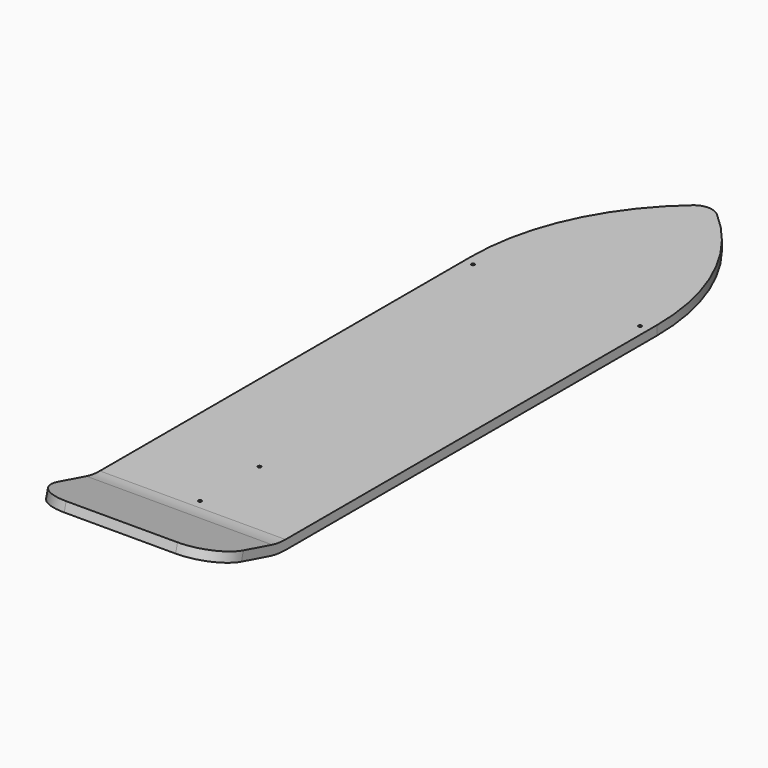
from build123d import *

# Parameters (mm, degrees)
F1_DEPTH = 12.7
F2_R     = 25.4
F4_DEPTH = 254
F5_R     = 50.8
F6_R     = 2.15265
F7_DEPTH = 12.7


with BuildPart() as f1:
    # F0 (on Top) → F1 (new body)
    with BuildSketch(Plane.XY):
        with BuildLine():
            Line((-254, -635), (0, -635))
            Line((0, -635), (0, 0))
            ThreePointArc((0, 0), (-33.5193668575, 141.9903165712), (-127, 254))
            ThreePointArc((-127, 254), (-220.4806331425, 141.9903165712), (-254, 0))
            Line((-254, 0), (-254, -635))
        make_face()
    extrude(amount=F1_DEPTH)

    # F2
    f2_edges = [f1.edges().sort_by_distance(p)[0] for p in [
        (-127, 254, 6.35),
    ]]
    fillet(f2_edges, radius=F2_R)

    # F3 (on face) → F4 (join, through all)
    with BuildSketch(Plane(origin=(-254, 0, 0), x_dir=(0, -1, 0), z_dir=(-1, 0, 0))):
        with BuildLine():
            ThreePointArc((658.0090131096, 15.7291940429), (646.6037784884, 13.4605518239), (635, 12.7))
            Line((635, 12.7), (635, 0))
            ThreePointArc((635, 0), (648.2614611296, 0.8692020844), (661.2960149824, 3.461936049))
            Line((661.2960149824, 3.461936049), (759.4340789334, 29.7579510314))
            Line((759.4340789334, 29.7579510314), (756.1470770606, 42.0252090253))
            Line((756.1470770606, 42.0252090253), (658.0090131096, 15.7291940429))
        make_face()
    extrude(amount=-F4_DEPTH)

    # F5
    f5_edges = [f1.edges().sort_by_distance(p)[0] for p in [
        (0, -757.790578, 35.89158),
        (-254, -757.790578, 35.89158),
    ]]
    fillet(f5_edges, radius=F5_R)

    # F6 (on face) → F7 (cut, through all)
    with BuildSketch(Plane.XY.offset(12.7)):
        with Locations((-127, -520.7)):
            Circle(F6_R)
        with Locations((-127, -622.3)):
            Circle(F6_R)
        with Locations((-241.3, -12.7)):
            Circle(F6_R)
        with Locations((-12.7, -12.7)):
            Circle(F6_R)
    extrude(amount=-F7_DEPTH, mode=Mode.SUBTRACT)


solid = f1.part
